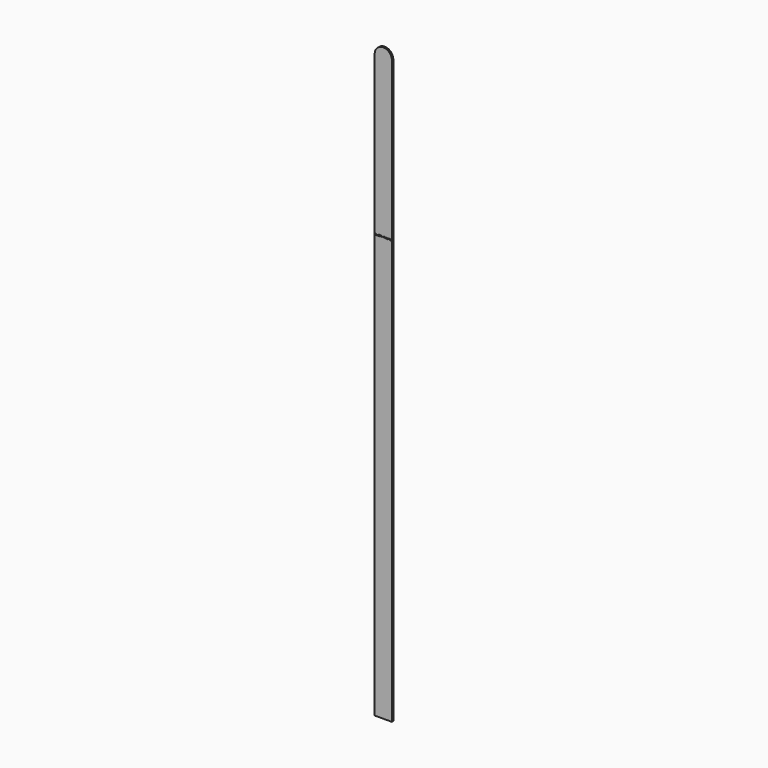
from build123d import *

# Parameters (mm, degrees)
F0_W     = 0.9870588235
F0_H     = 0.4594117647
F1_DEPTH = 3


with BuildPart() as f1:
    # F0 (on Front) → F1 (new body)
    with BuildSketch(Plane.XZ):
        with BuildLine():
            Line((0, 1015), (0, 0))
            Line((0, 0), (30, 0))
            Line((30, 0), (30, 1015))
            ThreePointArc((30, 1015), (25.6066017178, 1025.6066017178), (15, 1030))
            ThreePointArc((15, 1030), (4.3933982822, 1025.6066017178), (0, 1015))
        make_face()
        with BuildLine():
            Line((1.2111764706, 738.7442129221), (0.9082352941, 738.7442129221))
            Line((0.9082352941, 738.7442129221), (0.9082352941, 737.7130364515))
            Line((0.9082352941, 737.7130364515), (0.3382352941, 737.7130364515))
            Line((0.3382352941, 737.7130364515), (0.3382352941, 740.4006835103))
            Line((0.3382352941, 740.4006835103), (1.1211764706, 740.4006835103))
            add(Edge.make_bspline(
                [(1.1211764706, 740.4006835103), (1.6694117647, 740.4006835103), (1.9320588235, 740.2012717456)],
                knots=[0, 0, 0, 1, 1, 1], degree=2))
            add(Edge.make_bspline(
                [(1.9320588235, 740.2012717456), (2.1947058824, 740.0018599809), (2.1947058824, 739.5953893927)],
                knots=[0, 0, 0, 1, 1, 1], degree=2))
            add(Edge.make_bspline(
                [(2.1947058824, 739.5953893927), (2.1947058824, 739.3583305692), (2.0644117647, 739.1736246868)],
                knots=[0, 0, 0, 1, 1, 1], degree=2))
            add(Edge.make_bspline(
                [(2.0644117647, 739.1736246868), (1.9341176471, 738.9889188045), (1.6947058824, 738.8842129221)],
                knots=[0, 0, 0, 1, 1, 1], degree=2))
            add(Edge.make_bspline(
                [(1.6947058824, 738.8842129221), (2.3017647059, 737.9777423339), (2.4852941176, 737.7130364515)],
                knots=[0, 0, 0, 1, 1, 1], degree=2))
            Line((2.4852941176, 737.7130364515), (1.8529411765, 737.7130364515))
            Line((1.8529411765, 737.7130364515), (1.2111764706, 738.7442129221))
        make_face(mode=Mode.SUBTRACT)
        with BuildLine():
            Line((4.4429411765, 740.4006835103), (5.0111764706, 740.4006835103))
            Line((5.0111764706, 740.4006835103), (5.0111764706, 738.6618599809))
            add(Edge.make_bspline(
                [(5.0111764706, 738.6618599809), (5.0111764706, 738.3636246868), (4.8779411765, 738.1395070398)],
                knots=[0, 0, 0, 1, 1, 1], degree=2))
            add(Edge.make_bspline(
                [(4.8779411765, 738.1395070398), (4.7447058824, 737.9153893927), (4.4926470588, 737.7956835103)],
                knots=[0, 0, 0, 1, 1, 1], degree=2))
            add(Edge.make_bspline(
                [(4.4926470588, 737.7956835103), (4.2405882353, 737.675977628), (3.8970588235, 737.675977628)],
                knots=[0, 0, 0, 1, 1, 1], degree=2))
            add(Edge.make_bspline(
                [(3.8970588235, 737.675977628), (3.3788235294, 737.675977628), (3.0920588235, 737.9418599809)],
                knots=[0, 0, 0, 1, 1, 1], degree=2))
            add(Edge.make_bspline(
                [(3.0920588235, 737.9418599809), (2.8052941176, 738.2077423339), (2.8052941176, 738.6689188045)],
                knots=[0, 0, 0, 1, 1, 1], degree=2))
            Line((2.8052941176, 738.6689188045), (2.8052941176, 740.4006835103))
            Line((2.8052941176, 740.4006835103), (3.3729411765, 740.4006835103))
            Line((3.3729411765, 740.4006835103), (3.3729411765, 738.7553893927))
            add(Edge.make_bspline(
                [(3.3729411765, 738.7553893927), (3.3729411765, 738.4448011574), (3.4979411765, 738.2995070398)],
                knots=[0, 0, 0, 1, 1, 1], degree=2))
            add(Edge.make_bspline(
                [(3.4979411765, 738.2995070398), (3.6229411765, 738.1542129221), (3.9117647059, 738.1542129221)],
                knots=[0, 0, 0, 1, 1, 1], degree=2))
            add(Edge.make_bspline(
                [(3.9117647059, 738.1542129221), (4.1911764706, 738.1542129221), (4.3170588235, 738.3003893927)],
                knots=[0, 0, 0, 1, 1, 1], degree=2))
            add(Edge.make_bspline(
                [(4.3170588235, 738.3003893927), (4.4429411765, 738.4465658633), (4.4429411765, 738.7589188045)],
                knots=[0, 0, 0, 1, 1, 1], degree=2))
            Line((4.4429411765, 738.7589188045), (4.4429411765, 740.4006835103))
        make_face(mode=Mode.SUBTRACT)
        Polygon((7.3294117647, 737.7130364515), (5.6694117647, 737.7130364515), (5.6694117647, 740.4006835103), (6.2394117647, 740.4006835103), (6.2394117647, 738.1836246868), (7.3294117647, 738.1836246868), align=None, mode=Mode.SUBTRACT)
        Polygon((9.3441176471, 738.1836246868), (9.3441176471, 737.7130364515), (7.7964705882, 737.7130364515), (7.7964705882, 740.4006835103), (9.3441176471, 740.4006835103), (9.3441176471, 739.9336246868), (8.3664705882, 739.9336246868), (8.3664705882, 739.3436246868), (9.2764705882, 739.3436246868), (9.2764705882, 738.8765658633), (8.3664705882, 738.8765658633), (8.3664705882, 738.1836246868), align=None, mode=Mode.SUBTRACT)
        with BuildLine():
            Line((10.7776470588, 738.7442129221), (10.4747058824, 738.7442129221))
            Line((10.4747058824, 738.7442129221), (10.4747058824, 737.7130364515))
            Line((10.4747058824, 737.7130364515), (9.9047058824, 737.7130364515))
            Line((9.9047058824, 737.7130364515), (9.9047058824, 740.4006835103))
            Line((9.9047058824, 740.4006835103), (10.6876470588, 740.4006835103))
            add(Edge.make_bspline(
                [(10.6876470588, 740.4006835103), (11.2358823529, 740.4006835103), (11.4985294118, 740.2012717456)],
                knots=[0, 0, 0, 1, 1, 1], degree=2))
            add(Edge.make_bspline(
                [(11.4985294118, 740.2012717456), (11.7611764706, 740.0018599809), (11.7611764706, 739.5953893927)],
                knots=[0, 0, 0, 1, 1, 1], degree=2))
            add(Edge.make_bspline(
                [(11.7611764706, 739.5953893927), (11.7611764706, 739.3583305692), (11.6308823529, 739.1736246868)],
                knots=[0, 0, 0, 1, 1, 1], degree=2))
            add(Edge.make_bspline(
                [(11.6308823529, 739.1736246868), (11.5005882353, 738.9889188045), (11.2611764706, 738.8842129221)],
                knots=[0, 0, 0, 1, 1, 1], degree=2))
            add(Edge.make_bspline(
                [(11.2611764706, 738.8842129221), (11.8682352941, 737.9777423339), (12.0517647059, 737.7130364515)],
                knots=[0, 0, 0, 1, 1, 1], degree=2))
            Line((12.0517647059, 737.7130364515), (11.4194117647, 737.7130364515))
            Line((11.4194117647, 737.7130364515), (10.7776470588, 738.7442129221))
        make_face(mode=Mode.SUBTRACT)
        with Locations((13.6358823529, 738.7221540986)):
            Rectangle(F0_W, F0_H, mode=Mode.SUBTRACT)
        with BuildLine():
            Line((16.7747058824, 740.4006835103), (16.7747058824, 737.7130364515))
            Line((16.7747058824, 737.7130364515), (16.2064705882, 737.7130364515))
            Line((16.2064705882, 737.7130364515), (16.2064705882, 739.2683305692))
            Line((16.2064705882, 739.2683305692), (16.2123529412, 739.5236246868))
            Line((16.2123529412, 739.5236246868), (16.2211764706, 739.8030364515))
            add(Edge.make_bspline(
                [(16.2211764706, 739.8030364515), (16.08, 739.6618599809), (16.0247058824, 739.6177423339)],
                knots=[0, 0, 0, 1, 1, 1], degree=2))
            Line((16.0247058824, 739.6177423339), (15.7158823529, 739.3695070398))
            Line((15.7158823529, 739.3695070398), (15.4417647059, 739.7112717456))
            Line((15.4417647059, 739.7112717456), (16.3076470588, 740.4006835103))
            Line((16.3076470588, 740.4006835103), (16.7747058824, 740.4006835103))
        make_face(mode=Mode.SUBTRACT)
        with BuildLine():
            Line((20.4805882353, 738.7442129221), (20.4805882353, 737.7130364515))
            Line((20.4805882353, 737.7130364515), (19.92, 737.7130364515))
            Line((19.92, 737.7130364515), (19.92, 738.9136246868))
            add(Edge.make_bspline(
                [(19.92, 738.9136246868), (19.92, 739.135977628), (19.8455882353, 739.2471540986)],
                knots=[0, 0, 0, 1, 1, 1], degree=2))
            add(Edge.make_bspline(
                [(19.8455882353, 739.2471540986), (19.7711764706, 739.3583305692), (19.6111764706, 739.3583305692)],
                knots=[0, 0, 0, 1, 1, 1], degree=2))
            add(Edge.make_bspline(
                [(19.6111764706, 739.3583305692), (19.3958823529, 739.3583305692), (19.2985294118, 739.2000952751)],
                knots=[0, 0, 0, 1, 1, 1], degree=2))
            add(Edge.make_bspline(
                [(19.2985294118, 739.2000952751), (19.2011764706, 739.0418599809), (19.2011764706, 738.6800952751)],
                knots=[0, 0, 0, 1, 1, 1], degree=2))
            Line((19.2011764706, 738.6800952751), (19.2011764706, 737.7130364515))
            Line((19.2011764706, 737.7130364515), (18.6405882353, 737.7130364515))
            Line((18.6405882353, 737.7130364515), (18.6405882353, 739.7683305692))
            Line((18.6405882353, 739.7683305692), (19.0688235294, 739.7683305692))
            Line((19.0688235294, 739.7683305692), (19.1441176471, 739.5053893927))
            Line((19.1441176471, 739.5053893927), (19.1752941176, 739.5053893927))
            add(Edge.make_bspline(
                [(19.1752941176, 739.5053893927), (19.2582352941, 739.6471540986), (19.4144117647, 739.7268599809)],
                knots=[0, 0, 0, 1, 1, 1], degree=2))
            add(Edge.make_bspline(
                [(19.4144117647, 739.7268599809), (19.5705882353, 739.8065658633), (19.7729411765, 739.8065658633)],
                knots=[0, 0, 0, 1, 1, 1], degree=2))
            add(Edge.make_bspline(
                [(19.7729411765, 739.8065658633), (20.2341176471, 739.8065658633), (20.3982352941, 739.5053893927)],
                knots=[0, 0, 0, 1, 1, 1], degree=2))
            Line((20.3982352941, 739.5053893927), (20.4476470588, 739.5053893927))
            add(Edge.make_bspline(
                [(20.4476470588, 739.5053893927), (20.5305882353, 739.6489188045), (20.6911764706, 739.7277423339)],
                knots=[0, 0, 0, 1, 1, 1], degree=2))
            add(Edge.make_bspline(
                [(20.6911764706, 739.7277423339), (20.8517647059, 739.8065658633), (21.0541176471, 739.8065658633)],
                knots=[0, 0, 0, 1, 1, 1], degree=2))
            add(Edge.make_bspline(
                [(21.0541176471, 739.8065658633), (21.4035294118, 739.8065658633), (21.5826470588, 739.6274482162)],
                knots=[0, 0, 0, 1, 1, 1], degree=2))
            add(Edge.make_bspline(
                [(21.5826470588, 739.6274482162), (21.7617647059, 739.4483305692), (21.7617647059, 739.0530364515)],
                knots=[0, 0, 0, 1, 1, 1], degree=2))
            Line((21.7617647059, 739.0530364515), (21.7617647059, 737.7130364515))
            Line((21.7617647059, 737.7130364515), (21.1994117647, 737.7130364515))
            Line((21.1994117647, 737.7130364515), (21.1994117647, 738.9136246868))
            add(Edge.make_bspline(
                [(21.1994117647, 738.9136246868), (21.1994117647, 739.135977628), (21.125, 739.2471540986)],
                knots=[0, 0, 0, 1, 1, 1], degree=2))
            add(Edge.make_bspline(
                [(21.125, 739.2471540986), (21.0505882353, 739.3583305692), (20.8905882353, 739.3583305692)],
                knots=[0, 0, 0, 1, 1, 1], degree=2))
            add(Edge.make_bspline(
                [(20.8905882353, 739.3583305692), (20.6847058824, 739.3583305692), (20.5826470588, 739.2112717456)],
                knots=[0, 0, 0, 1, 1, 1], degree=2))
            add(Edge.make_bspline(
                [(20.5826470588, 739.2112717456), (20.4805882353, 739.0642129221), (20.4805882353, 738.7442129221)],
                knots=[0, 0, 0, 1, 1, 1], degree=2))
        make_face(mode=Mode.SUBTRACT)
        with BuildLine():
            add(Edge.make_bspline(
                [(23.6752941176, 737.7118599809), (23.5082352941, 737.675977628), (23.2670588235, 737.675977628)],
                knots=[0, 0, 0, 1, 1, 1], degree=2))
            add(Edge.make_bspline(
                [(23.2670588235, 737.675977628), (22.7711764706, 737.675977628), (22.4917647059, 737.9500952751)],
                knots=[0, 0, 0, 1, 1, 1], degree=2))
            add(Edge.make_bspline(
                [(22.4917647059, 737.9500952751), (22.2123529412, 738.2242129221), (22.2123529412, 738.725977628)],
                knots=[0, 0, 0, 1, 1, 1], degree=2))
            add(Edge.make_bspline(
                [(22.2123529412, 738.725977628), (22.2123529412, 739.2424482162), (22.4705882353, 739.5245070398)],
                knots=[0, 0, 0, 1, 1, 1], degree=2))
            add(Edge.make_bspline(
                [(22.4705882353, 739.5245070398), (22.7288235294, 739.8065658633), (23.1847058824, 739.8065658633)],
                knots=[0, 0, 0, 1, 1, 1], degree=2))
            add(Edge.make_bspline(
                [(23.1847058824, 739.8065658633), (23.62, 739.8065658633), (23.8626470588, 739.5586246868)],
                knots=[0, 0, 0, 1, 1, 1], degree=2))
            add(Edge.make_bspline(
                [(23.8626470588, 739.5586246868), (24.1052941176, 739.3106835103), (24.1052941176, 738.8730364515)],
                knots=[0, 0, 0, 1, 1, 1], degree=2))
            Line((24.1052941176, 738.8730364515), (24.1052941176, 738.6006835103))
            Line((24.1052941176, 738.6006835103), (22.78, 738.6006835103))
            add(Edge.make_bspline(
                [(22.78, 738.6006835103), (22.7894117647, 738.3618599809), (22.9217647059, 738.2277423339)],
                knots=[0, 0, 0, 1, 1, 1], degree=2))
            add(Edge.make_bspline(
                [(22.9217647059, 738.2277423339), (23.0541176471, 738.0936246868), (23.2929411765, 738.0936246868)],
                knots=[0, 0, 0, 1, 1, 1], degree=2))
            add(Edge.make_bspline(
                [(23.2929411765, 738.0936246868), (23.4788235294, 738.0936246868), (23.6441176471, 738.1321540986)],
                knots=[0, 0, 0, 1, 1, 1], degree=2))
            add(Edge.make_bspline(
                [(23.6441176471, 738.1321540986), (23.8094117647, 738.1706835103), (23.9894117647, 738.2553893927)],
                knots=[0, 0, 0, 1, 1, 1], degree=2))
            Line((23.9894117647, 738.2553893927), (23.9894117647, 737.8212717456))
            add(Edge.make_bspline(
                [(23.9894117647, 737.8212717456), (23.8423529412, 737.7477423339), (23.6752941176, 737.7118599809)],
                knots=[0, 0, 0, 1, 1, 1], degree=2))
        make_face(mode=Mode.SUBTRACT)
        with BuildLine():
            add(Edge.make_bspline(
                [(25.2494117647, 738.1800952751), (25.3164705882, 738.1230364515), (25.4270588235, 738.1230364515)],
                knots=[0, 0, 0, 1, 1, 1], degree=2))
            add(Edge.make_bspline(
                [(25.4270588235, 738.1230364515), (25.5741176471, 738.1230364515), (25.78, 738.1871540986)],
                knots=[0, 0, 0, 1, 1, 1], degree=2))
            Line((25.78, 738.1871540986), (25.78, 737.7700952751))
            add(Edge.make_bspline(
                [(25.78, 737.7700952751), (25.5705882353, 737.675977628), (25.2652941176, 737.675977628)],
                knots=[0, 0, 0, 1, 1, 1], degree=2))
            add(Edge.make_bspline(
                [(25.2652941176, 737.675977628), (24.9288235294, 737.675977628), (24.7752941176, 737.8462717456)],
                knots=[0, 0, 0, 1, 1, 1], degree=2))
            add(Edge.make_bspline(
                [(24.7752941176, 737.8462717456), (24.6217647059, 738.0165658633), (24.6217647059, 738.3565658633)],
                knots=[0, 0, 0, 1, 1, 1], degree=2))
            Line((24.6217647059, 738.3565658633), (24.6217647059, 739.3471540986))
            Line((24.6217647059, 739.3471540986), (24.3535294118, 739.3471540986))
            Line((24.3535294118, 739.3471540986), (24.3535294118, 739.5842129221))
            Line((24.3535294118, 739.5842129221), (24.6623529412, 739.7718599809))
            Line((24.6623529412, 739.7718599809), (24.8241176471, 740.205977628))
            Line((24.8241176471, 740.205977628), (25.1823529412, 740.205977628))
            Line((25.1823529412, 740.205977628), (25.1823529412, 739.7683305692))
            Line((25.1823529412, 739.7683305692), (25.7576470588, 739.7683305692))
            Line((25.7576470588, 739.7683305692), (25.7576470588, 739.3471540986))
            Line((25.7576470588, 739.3471540986), (25.1823529412, 739.3471540986))
            Line((25.1823529412, 739.3471540986), (25.1823529412, 738.3565658633))
            add(Edge.make_bspline(
                [(25.1823529412, 738.3565658633), (25.1823529412, 738.2371540986), (25.2494117647, 738.1800952751)],
                knots=[0, 0, 0, 1, 1, 1], degree=2))
        make_face(mode=Mode.SUBTRACT)
        with BuildLine():
            add(Edge.make_bspline(
                [(27.5335294118, 737.7118599809), (27.3664705882, 737.675977628), (27.1252941176, 737.675977628)],
                knots=[0, 0, 0, 1, 1, 1], degree=2))
            add(Edge.make_bspline(
                [(27.1252941176, 737.675977628), (26.6294117647, 737.675977628), (26.35, 737.9500952751)],
                knots=[0, 0, 0, 1, 1, 1], degree=2))
            add(Edge.make_bspline(
                [(26.35, 737.9500952751), (26.0705882353, 738.2242129221), (26.0705882353, 738.725977628)],
                knots=[0, 0, 0, 1, 1, 1], degree=2))
            add(Edge.make_bspline(
                [(26.0705882353, 738.725977628), (26.0705882353, 739.2424482162), (26.3288235294, 739.5245070398)],
                knots=[0, 0, 0, 1, 1, 1], degree=2))
            add(Edge.make_bspline(
                [(26.3288235294, 739.5245070398), (26.5870588235, 739.8065658633), (27.0429411765, 739.8065658633)],
                knots=[0, 0, 0, 1, 1, 1], degree=2))
            add(Edge.make_bspline(
                [(27.0429411765, 739.8065658633), (27.4782352941, 739.8065658633), (27.7208823529, 739.5586246868)],
                knots=[0, 0, 0, 1, 1, 1], degree=2))
            add(Edge.make_bspline(
                [(27.7208823529, 739.5586246868), (27.9635294118, 739.3106835103), (27.9635294118, 738.8730364515)],
                knots=[0, 0, 0, 1, 1, 1], degree=2))
            Line((27.9635294118, 738.8730364515), (27.9635294118, 738.6006835103))
            Line((27.9635294118, 738.6006835103), (26.6382352941, 738.6006835103))
            add(Edge.make_bspline(
                [(26.6382352941, 738.6006835103), (26.6476470588, 738.3618599809), (26.78, 738.2277423339)],
                knots=[0, 0, 0, 1, 1, 1], degree=2))
            add(Edge.make_bspline(
                [(26.78, 738.2277423339), (26.9123529412, 738.0936246868), (27.1511764706, 738.0936246868)],
                knots=[0, 0, 0, 1, 1, 1], degree=2))
            add(Edge.make_bspline(
                [(27.1511764706, 738.0936246868), (27.3370588235, 738.0936246868), (27.5023529412, 738.1321540986)],
                knots=[0, 0, 0, 1, 1, 1], degree=2))
            add(Edge.make_bspline(
                [(27.5023529412, 738.1321540986), (27.6676470588, 738.1706835103), (27.8476470588, 738.2553893927)],
                knots=[0, 0, 0, 1, 1, 1], degree=2))
            Line((27.8476470588, 738.2553893927), (27.8476470588, 737.8212717456))
            add(Edge.make_bspline(
                [(27.8476470588, 737.8212717456), (27.7005882353, 737.7477423339), (27.5335294118, 737.7118599809)],
                knots=[0, 0, 0, 1, 1, 1], degree=2))
        make_face(mode=Mode.SUBTRACT)
        with BuildLine():
            add(Edge.make_bspline(
                [(29.2126470588, 739.700977628), (29.3752941176, 739.8065658633), (29.5664705882, 739.8065658633)],
                knots=[0, 0, 0, 1, 1, 1], degree=2))
            add(Edge.make_bspline(
                [(29.5664705882, 739.8065658633), (29.6805882353, 739.8065658633), (29.7558823529, 739.7900952751)],
                knots=[0, 0, 0, 1, 1, 1], degree=2))
            Line((29.7558823529, 739.7900952751), (29.7135294118, 739.2648011574))
            add(Edge.make_bspline(
                [(29.7135294118, 739.2648011574), (29.6452941176, 739.2830364515), (29.5482352941, 739.2830364515)],
                knots=[0, 0, 0, 1, 1, 1], degree=2))
            add(Edge.make_bspline(
                [(29.5482352941, 739.2830364515), (29.28, 739.2830364515), (29.13, 739.1450952751)],
                knots=[0, 0, 0, 1, 1, 1], degree=2))
            add(Edge.make_bspline(
                [(29.13, 739.1450952751), (28.98, 739.0071540986), (28.98, 738.7589188045)],
                knots=[0, 0, 0, 1, 1, 1], degree=2))
            Line((28.98, 738.7589188045), (28.98, 737.7130364515))
            Line((28.98, 737.7130364515), (28.4194117647, 737.7130364515))
            Line((28.4194117647, 737.7130364515), (28.4194117647, 739.7683305692))
            Line((28.4194117647, 739.7683305692), (28.8441176471, 739.7683305692))
            Line((28.8441176471, 739.7683305692), (28.9270588235, 739.4224482162))
            Line((28.9270588235, 739.4224482162), (28.9541176471, 739.4224482162))
            add(Edge.make_bspline(
                [(28.9541176471, 739.4224482162), (29.05, 739.5953893927), (29.2126470588, 739.700977628)],
                knots=[0, 0, 0, 1, 1, 1], degree=2))
        make_face(mode=Mode.SUBTRACT)
    extrude(amount=F1_DEPTH)


solid = f1.part
